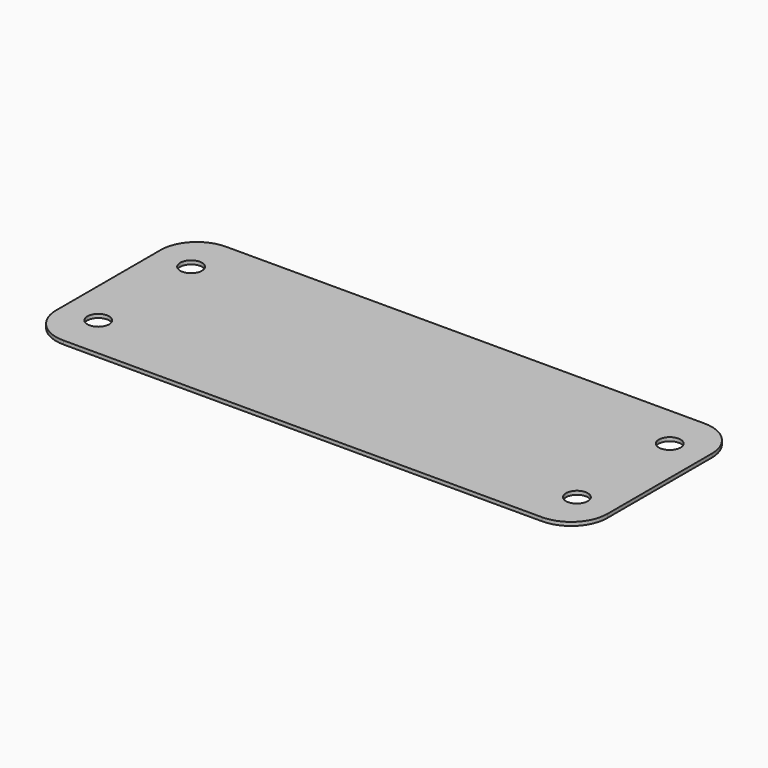
from build123d import *

# Parameters (mm, degrees)
CYLINDER001_R     = 1.5
CYLINDER001_DEPTH = 10
ARRAY001_X_COUNT  = 2
ARRAY001_X_PITCH  = 66
ARRAY001_Y_COUNT  = 2
ARRAY001_Y_PITCH  = 16
BOX002_W          = 76
BOX002_H          = 28
BOX002_DEPTH      = 0.5
FILLET001_R       = 5


with BuildPart() as screw_body_hole_array:
    # Cylinder001 → Cylinder001 (new body)
    with BuildSketch(Plane.XY):
        Circle(CYLINDER001_R)
    extrude(amount=CYLINDER001_DEPTH)

    # Array001 X: screw body hole array ×2


with BuildPart() as screw_body_hole_array_1:
    add(screw_body_hole_array.part)
    with Locations(*[(i * ARRAY001_X_PITCH, 0, 0) for i in range(1, ARRAY001_X_COUNT)]):
        add(screw_body_hole_array.part)

    # Array001 Y: screw body hole array ×2


with BuildPart() as screw_body_hole_array_2:
    add(screw_body_hole_array_1.part)
    with Locations(*[(0, i * ARRAY001_Y_PITCH, 0) for i in range(1, ARRAY001_Y_COUNT)]):
        add(screw_body_hole_array_1.part)


with BuildPart() as screw_body_hole_array_3:
    # Array001 placement: moved
    add(screw_body_hole_array_2.part.moved(Location((-5, 5, -4))))


with BuildPart() as amplifier_lid_cut:
    # Box002 → Box002 (new body)
    with BuildSketch(Plane(origin=(-10, -1, -1), x_dir=(1, 0, 0), z_dir=(0, 0, 1))):
        with Locations((38, 14)):
            Rectangle(BOX002_W, BOX002_H)
    extrude(amount=BOX002_DEPTH)

    # Fillet001
    fillet001_edges = [amplifier_lid_cut.edges().sort_by_distance(p)[0] for p in [
        (-10, -1, -0.75),
        (-10, 27, -0.75),
        (66, -1, -0.75),
        (66, 27, -0.75),
    ]]
    fillet(fillet001_edges, radius=FILLET001_R)

    # Cut001: cut screw body hole array
    add(screw_body_hole_array_3.part, mode=Mode.SUBTRACT)


solid = amplifier_lid_cut.part
